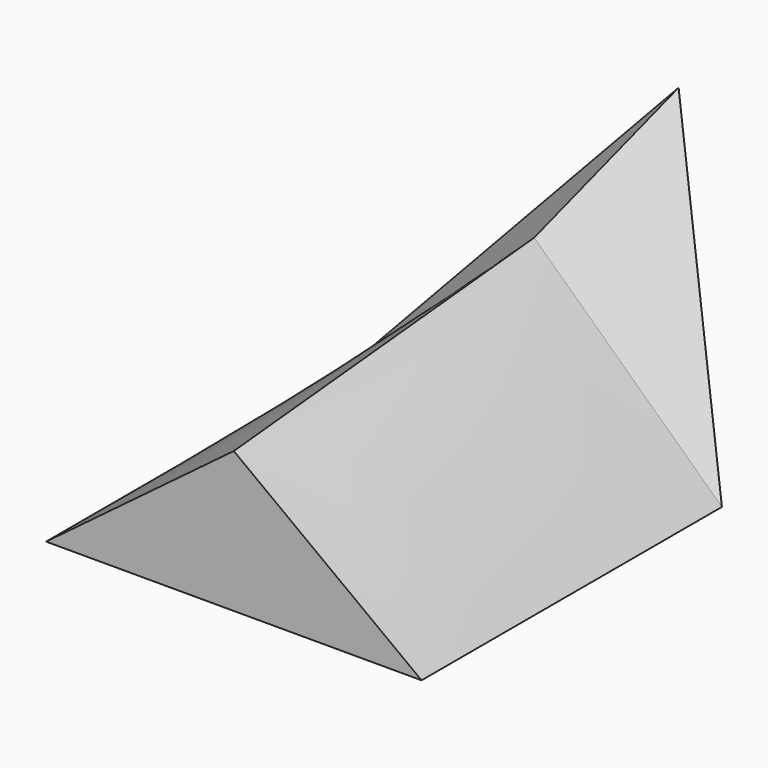
from build123d import *


with BuildPart() as f7:
    # F4 (on offset) → F7 section 0
    with BuildSketch(Plane.XZ.offset(25.37), mode=Mode.PRIVATE) as f7_s0:
        Polygon((0, 7.5), (-8, 0), (8, 0), align=None)
    loft([Vertex(0, -17.67767, 10), f7_s0.sketch])

    # F7_face (on face) → F8 section 0
    with BuildSketch(Plane(origin=(0, -25.37, 2.5), x_dir=(1, 0, 0), z_dir=(0, -1, 0))):
        Polygon((0, 5), (-8, -2.5), (8, -2.5), align=None)
    # F3 (on offset) → F8 section 1
    with BuildSketch(Plane.XZ.offset(41.37)):
        Polygon((0, 6), (-8, 0), (8, 0), align=None)
    loft()


solid = f7.part
